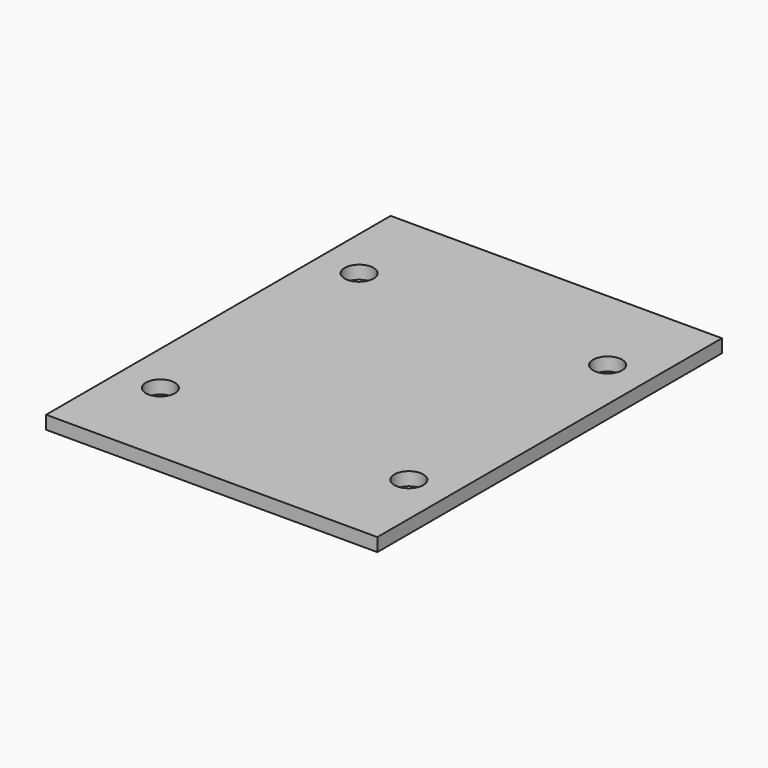
from build123d import *

# Parameters (mm, degrees)
F0_W     = 40
F0_H     = 52
F1_DEPTH = 0.8
F2_R     = 1.75
F3_DEPTH = 1.6


with BuildPart() as f1:
    # F0 (on Top) → F1 (new body, symmetric)
    with BuildSketch(Plane.XY):
        Rectangle(F0_W, F0_H)
    extrude(amount=F1_DEPTH, both=True)

    # F2 (on face) → F3 (cut, through all)
    with BuildSketch(Plane.XY.offset(0.8)):
        with Locations((-15, 15)):
            Circle(F2_R)
        with Locations((15, 15)):
            Circle(F2_R)
        with Locations((-15, -15)):
            Circle(F2_R)
        with Locations((15, -15)):
            Circle(F2_R)
    extrude(amount=-F3_DEPTH, mode=Mode.SUBTRACT)


solid = f1.part
